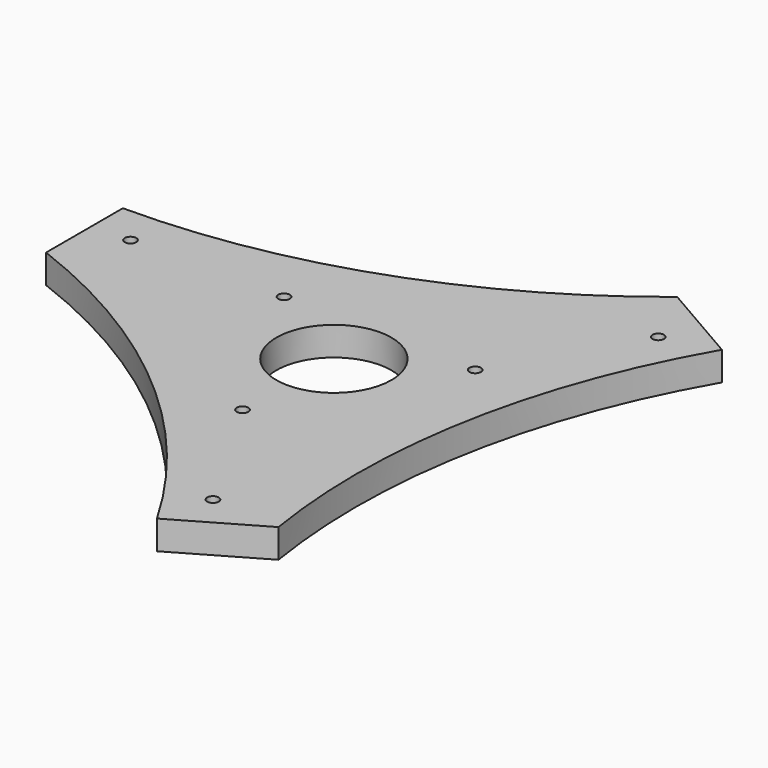
from build123d import *

# Parameters (mm, degrees)
PAD_DEPTH             = 15
SKETCH001_R           = 3
POCKET_DEPTH          = 798.1381594859
POLARPATTERN_COUNT    = 3
POCKET001_DEPTH       = 798.1381594859
POLARPATTERN001_COUNT = 3
SKETCH003_R           = 30
POCKET002_DEPTH       = 15.001


with BuildPart() as part:
    # Sketch → Pad (new body)
    with BuildSketch(Plane.XY):
        Polygon((-150, 0), (-150, 50), (75, 129.9038105677), (118.3012701892, 104.9038105677), (75, -129.9038105677), (31.6987298108, -154.9038105677), align=None)
    extrude(amount=PAD_DEPTH)

    # Sketch001 (on Face8 of Pad) → Pocket (cut, through all)
    with BuildSketch(Plane.XY.offset(15)):
        with Locations((-130, 30)):
            Circle(SKETCH001_R)
        with Locations((-50, 30)):
            Circle(SKETCH001_R)
    pocket = extrude(amount=-POCKET_DEPTH, mode=Mode.SUBTRACT)

    # PolarPattern: Pocket ×3 about axis
    polarpattern_axis = Axis((0, 0, 0), (0, 0, 1))
    for i in range(1, POLARPATTERN_COUNT):
        add(pocket.rotate(polarpattern_axis, i * 360 / POLARPATTERN_COUNT), mode=Mode.SUBTRACT)

    # Sketch002 (on Face5 of PolarPattern) → Pocket001 (cut, through all)
    with BuildSketch(Plane.XY.offset(15)):
        with BuildLine():
            ThreePointArc((-150, 50), (-30.6165642318, 70.5689367266), (75, 129.9038105677))
            Line((-150, 50), (75, 129.9038105677))
        make_face()
    pocket001 = extrude(amount=-POCKET001_DEPTH, mode=Mode.SUBTRACT)

    # PolarPattern001: Pocket001 ×3 about axis
    polarpattern001_axis = Axis((0, 0, 0), (0, 0, 1))
    for i in range(1, POLARPATTERN001_COUNT):
        add(pocket001.rotate(polarpattern001_axis, i * 360 / POLARPATTERN001_COUNT), mode=Mode.SUBTRACT)

    # Sketch003 (on Face5 of PolarPattern001) → Pocket002 (cut, through all)
    with BuildSketch(Plane.XY.offset(15)):
        Circle(SKETCH003_R)
    extrude(amount=-POCKET002_DEPTH, mode=Mode.SUBTRACT)


solid = part.part
